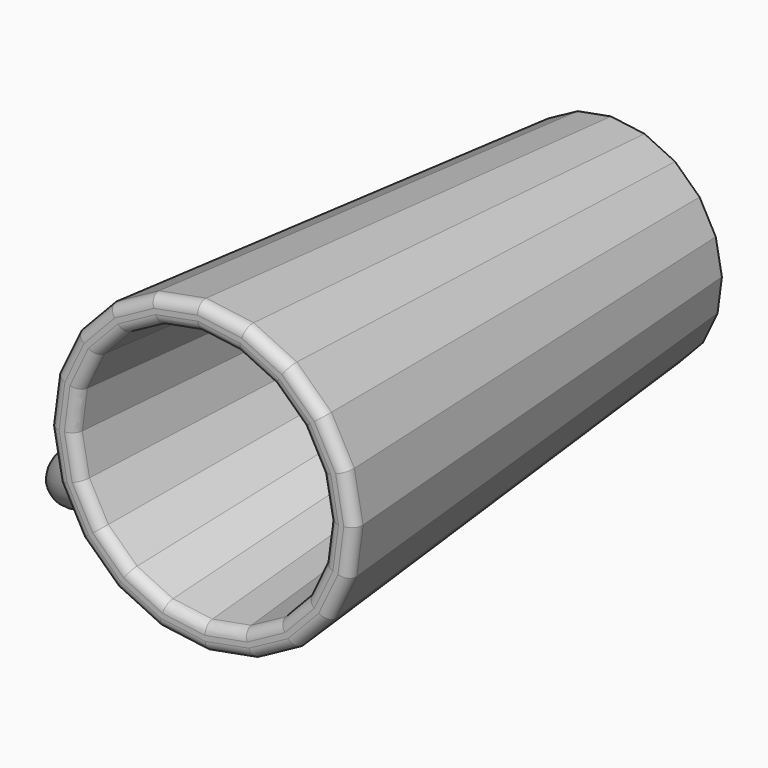
from build123d import *

# Parameters (mm, degrees)
F1_DEPTH = 127
F1_TAPER = -5
F2_T     = -6.35
F3_R     = 4.941077981
F4_ANGLE = 100
F5_R     = 2.54


with BuildPart() as f1:
    # F0 (on Front) → F1 (new body)
    with BuildSketch(Plane.XZ):
        Polygon((-7.5523194247, -25.5348109761), (0.7080079378, -26.6188434204), (8.8990305503, -25.0972380063), (16.2189540494, -21.1189400734), (21.951253322, -15.0733731418), (25.5348109761, -7.5523194247), (26.6188434204, 0.7080079378), (25.0972380063, 8.8990305503), (21.1189400734, 16.2189540494), (15.0733731418, 21.951253322), (7.5523194247, 25.5348109761), (-0.7080079378, 26.6188434204), (-8.8990305503, 25.0972380063), (-16.2189540494, 21.1189400734), (-21.951253322, 15.0733731418), (-25.5348109761, 7.5523194247), (-26.6188434204, -0.7080079378), (-25.0972380063, -8.8990305503), (-21.1189400734, -16.2189540494), (-15.0733731418, -21.951253322), align=None)
    extrude(amount=F1_DEPTH, taper=F1_TAPER)

    # F2
    f2_openings = [f1.faces().sort_by_distance(p)[0] for p in [
        (0, -127, 0),
    ]]
    offset(amount=F2_T, openings=f2_openings)

    # F3 (on face) → F4 (revolve)
    with BuildSketch(Plane(origin=(-22.9325571418, 2.2835099603, -12.4635926434), x_dir=(-0.0765768266, -0.9961946981, -0.0416186632), z_dir=(-0.8752771328, 0.0871557427, -0.4757034973))):
        with Locations((113.287396729, 0)):
            Circle(F3_R)
    revolve(axis=Axis((-27.7615698329, -67.5198682711, -16.367370741), (0.4764181427, -0.0137502747, -0.8791113031)), revolution_arc=F4_ANGLE)

    # F5
    f5_edges = [f1.edges().sort_by_distance(p)[0] for p in [
        (-16.092151, -127, -33.773681),
        (-4.867904, -127, -37.093427),
        (6.832848, -127, -36.782211),
        (17.864753, -127, -32.870495),
        (27.147931, -127, -25.741186),
        (33.773681, -127, -16.092151),
        (37.093427, -127, -4.867904),
        (36.782211, -127, 6.832848),
        (32.870495, -127, 17.864753),
        (25.741186, -127, 27.147931),
        (16.092151, -127, 33.773681),
        (4.867904, -127, 37.093427),
        (-6.832848, -127, 36.782211),
        (-17.864753, -127, 32.870495),
        (-27.147931, -127, 25.741186),
        (-33.773681, -127, 16.092151),
        (-37.093427, -127, 4.867904),
        (-36.782211, -127, -6.832848),
        (-32.870495, -127, -17.864753),
        (-25.741186, -127, -27.147931),
        (-13.350332, -127, -28.019241),
        (-21.355342, -127, -22.522403),
        (-27.269943, -127, -14.820914),
        (-30.515171, -127, -5.668651),
        (-30.773362, -127, 4.038499),
        (-28.019241, -127, 13.350332),
        (-22.522403, -127, 21.355342),
        (-14.820914, -127, 27.269943),
        (-5.668651, -127, 30.515171),
        (4.038499, -127, 30.773362),
        (13.350332, -127, 28.019241),
        (21.355342, -127, 22.522403),
        (27.269943, -127, 14.820914),
        (30.515171, -127, 5.668651),
        (30.773362, -127, -4.038499),
        (28.019241, -127, -13.350332),
        (22.522403, -127, -21.355342),
        (14.820914, -127, -27.269943),
        (5.668651, -127, -30.515171),
        (-4.038499, -127, -30.773362),
    ]]
    fillet(f5_edges, radius=F5_R)


solid = f1.part
